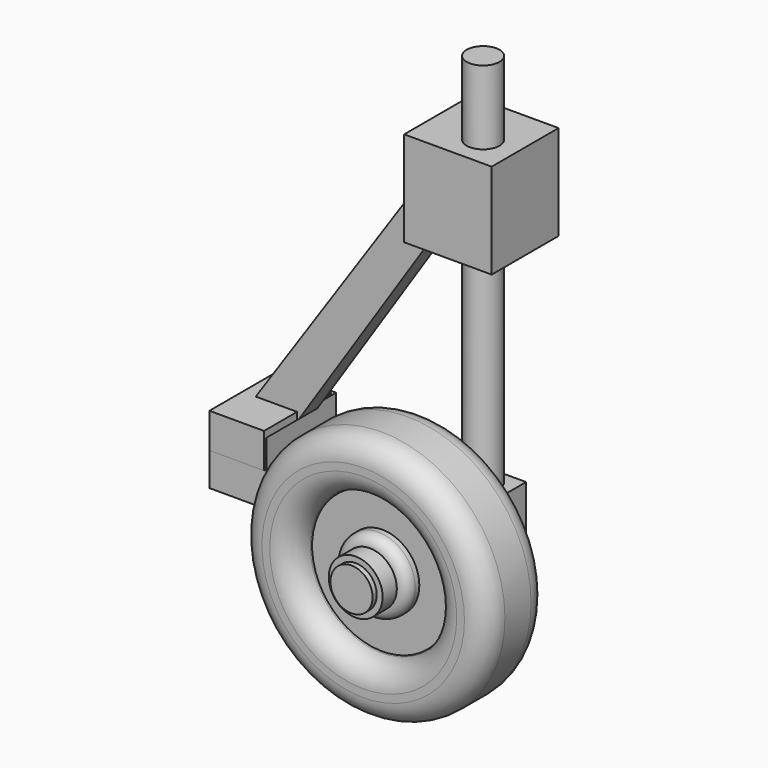
from build123d import *

# Parameters (mm, degrees)
F0_R      = 60.6847745937
F0_R_2    = 34.8205575528
F1_DEPTH  = 19.05
F2_R      = 34.4459317596
F3_DEPTH  = 7.366
F4_R      = 11.0377844072
F5_R      = 18.1582128769
F6_DEPTH  = 14.986
F7_R      = 5.08
F8_R      = 13.2092253016
F8_R_2    = 10.2471686056
F9_DEPTH  = 23.6971350387
F10_R     = 10.337182661
F11_DEPTH = 26.2393392622
F12_R     = 5.8407220921
F13_DEPTH = 50.7193282247
F14_W     = 23.8795280457
F14_H     = 27.8235003352
F15_DEPTH = 12.7
F16_R     = 8.0691295472
F17_DEPTH = 197.6144313812
F18_R     = 6.5890813313
F19_DEPTH = 106.8541686982
F20_W     = 27.9282331467
F20_H     = 32.9808592796
F21_DEPTH = 72.7590117604
F22_DEPTH = 30.0906281918
F24_DEPTH = 61.234170571
F25_DEPTH = 50.0597655773
F26_W     = 42.925298214
F26_H     = 46.6097146273
F27_DEPTH = 80.027140677
F28_DEPTH = 39.0144903213
F29_W     = 26.7803966999
F29_H     = 17.1200037003
F30_DEPTH = 70.7268733531
F31_DEPTH = 29.7882556915


with BuildPart() as f1:
    # F0 (on Front) → F1 (new body, symmetric)
    with BuildSketch(Plane.XZ):
        Circle(F0_R)
        Circle(F0_R_2, mode=Mode.SUBTRACT)
    extrude(amount=F1_DEPTH, both=True)

    # F4
    f4_edges = [f1.edges().sort_by_distance(p)[0] for p in [
        (-60.684775, 19.05, 0),
        (-34.820558, 19.05, 0),
        (-60.684775, -19.05, 0),
        (-34.820558, -19.05, 0),
    ]]
    fillet(f4_edges, radius=F4_R)


with BuildPart() as f3:
    # F2 (on Front) → F3 (new body, symmetric)
    with BuildSketch(Plane.XZ):
        Circle(F2_R)
    extrude(amount=F3_DEPTH, both=True)


with BuildPart() as f6:
    # F5 (on Front) → F6 (new body, symmetric)
    with BuildSketch(Plane.XZ):
        Circle(F5_R)
    extrude(amount=F6_DEPTH, both=True)

    # F7
    f7_edges = [f6.edges().sort_by_distance(p)[0] for p in [
        (-18.158213, -14.986, 0),
        (-18.158213, 14.986, 0),
    ]]
    fillet(f7_edges, radius=F7_R)


with BuildPart() as f9:
    # F8 (on Front) → F9 (new body, symmetric)
    with BuildSketch(Plane.XZ):
        Circle(F8_R)
        Circle(F8_R_2, mode=Mode.SUBTRACT)
    extrude(amount=F9_DEPTH, both=True)


with BuildPart() as f11:
    # F10 (on Front) → F11 (new body, symmetric)
    with BuildSketch(Plane.XZ):
        Circle(F10_R)
    extrude(amount=F11_DEPTH, both=True)


with BuildPart() as f13:
    # F12 (on Front) → F13 (new body)
    with BuildSketch(Plane.XZ):
        Circle(F12_R)
    extrude(amount=-F13_DEPTH)

    # F14 (on Right) → F15 (join, symmetric)
    with BuildSketch(Plane.YZ):
        with Locations((52.9878735542, -0.4717297852)):
            Rectangle(F14_W, F14_H)
    extrude(amount=F15_DEPTH, both=True)

    # F16 (on Top) → F17 (join)
    with BuildSketch(Plane.XY):
        with Locations((0, 54.4228851795)):
            Circle(F16_R)
    extrude(amount=F17_DEPTH)

    # F18 (on Right) → F19 (join)
    with BuildSketch(Plane.YZ):
        with Locations((51.4525175095, 0)):
            Circle(F18_R)
    extrude(amount=-F19_DEPTH)

    # F20 (on Front) → F21 (join)
    with BuildSketch(Plane.XZ):
        with Locations((-100.6985902786, 0)):
            Rectangle(F20_W, F20_H)
    extrude(amount=-F21_DEPTH)

    # F22 (cut): a face of the model
    f22_faces = [f13.faces().sort_by_distance(p)[0] for p in [
        (-100.6985902786, 0, 0),
    ]]
    extrude(f22_faces, amount=-F22_DEPTH, mode=Mode.SUBTRACT)

    # F23 (on Front) → F24 (join)
    with BuildSketch(Plane.XZ):
        Polygon((-13.8984322548, 155.7226479053), (-109.7017526627, 14.6198570728), (-96.2186157703, 0), (0, 146.2861516418), align=None)
    extrude(amount=-F24_DEPTH)

    # F25 (cut): a face of the model
    f25_faces = [f13.faces().sort_by_distance(p)[0] for p in [
        (-56.0493414222, 0, 77.4529436988),
    ]]
    extrude(f25_faces, amount=-F25_DEPTH, mode=Mode.SUBTRACT)

    # F26 (on Front) → F27 (join)
    with BuildSketch(Plane.XZ):
        with Locations((-4.9150884151, 138.0854919553)):
            Rectangle(F26_W, F26_H)
    extrude(amount=-F27_DEPTH)

    # F28 (cut): a face of the model
    f28_faces = [f13.faces().sort_by_distance(p)[0] for p in [
        (-4.9150884151, 0, 138.0854919553),
    ]]
    extrude(f28_faces, amount=-F28_DEPTH, mode=Mode.SUBTRACT)

    # F29 (on Front) → F30 (join)
    with BuildSketch(Plane.XZ):
        with Locations((-101.122662425, 8.5600018501)):
            Rectangle(F29_W, F29_H)
    extrude(amount=-F30_DEPTH)

    # F31 (cut): a face of the model
    f31_faces = [f13.faces().sort_by_distance(p)[0] for p in [
        (-101.122662425, 0, 8.5600018501),
    ]]
    extrude(f31_faces, amount=-F31_DEPTH, mode=Mode.SUBTRACT)


solid = Compound([f1.part, f3.part, f6.part, f9.part, f11.part, f13.part])
